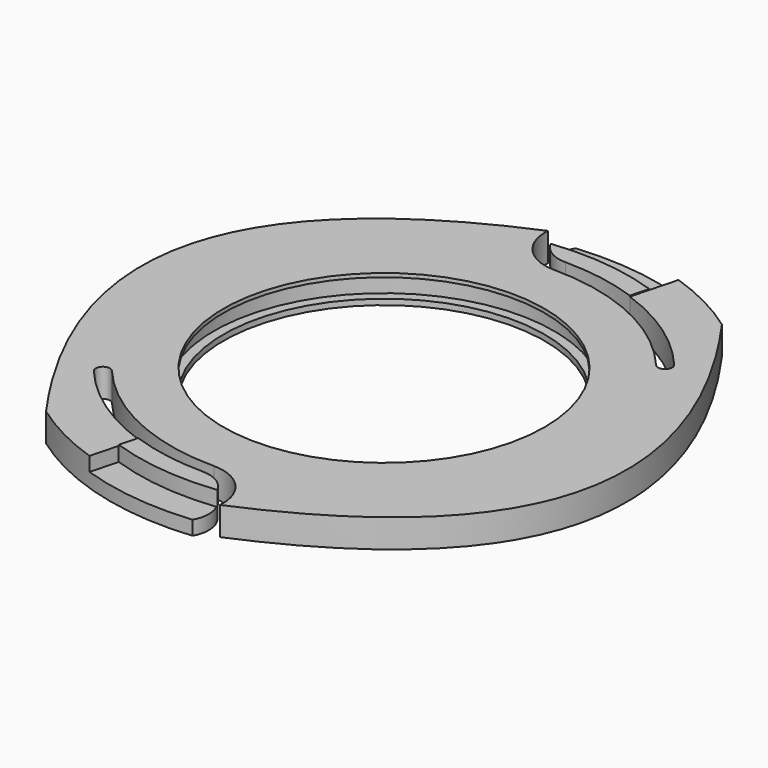
from build123d import *

# Parameters (mm, degrees)
SKETCH_R              = 29
PAD_DEPTH             = 3
POCKET_DEPTH          = 5
POLARPATTERN_COUNT    = 2
POCKET001_DEPTH       = 5
POLARPATTERN001_COUNT = 2
SKETCH003_R           = 18
POCKET002_DEPTH       = 2.4
SKETCH004_R           = 17
POCKET003_DEPTH       = 5
POCKET004_DEPTH       = 1.5
POLARPATTERN002_COUNT = 2
PAD001_DEPTH          = 1.6
POLARPATTERN003_COUNT = 2
SKETCH007_R           = 18.340375
PAD002_DEPTH          = 0.4
SKETCH008_R           = 17
POCKET005_DEPTH       = 5


with BuildPart() as part:
    # Sketch → Pad (new body)
    with BuildSketch(Plane.XY):
        Circle(SKETCH_R)
    extrude(amount=PAD_DEPTH)

    # Sketch001 (on Face3 of Pad) → Pocket (cut)
    with BuildSketch(Plane.XY.offset(3)):
        with BuildLine():
            ThreePointArc((-18.385067, -15.426903), (-10.142838, -21.751387), (0, -24))
            ThreePointArc((1.989789, -29.812024), (3.071599, -26.195037), (0, -24))
            ThreePointArc((1.989789, -29.812024), (2.178472, -31.958585), (3.600531, -30.339612))
            ThreePointArc((3.600531, -30.339612), (4.313448, -25.265566), (0, -22.5))
            ThreePointArc((-17.236, -14.462721), (-9.508911, -20.391925), (0, -22.5))
            ThreePointArc((-17.236, -14.462721), (-18.296812, -14.365288), (-18.385067, -15.426903))
        make_face()
    pocket = extrude(amount=-POCKET_DEPTH, mode=Mode.SUBTRACT)

    # PolarPattern: Pocket ×2 about axis
    polarpattern_axis = Axis((0, 0, 3), (0, 0, 1))
    for i in range(1, POLARPATTERN_COUNT):
        add(pocket.rotate(polarpattern_axis, i * 360 / POLARPATTERN_COUNT), mode=Mode.SUBTRACT)

    # Sketch002 (on Face4 of PolarPattern) → Pocket001 (cut)
    with BuildSketch(Plane.XY.offset(3)):
        with BuildLine():
            add(Edge.make_bspline(
                [(-3.074709, 28.315083), (-42.734669, 12.512014), (-16.852234, -23.673746)],
                knots=[0, 0, 0, 1, 1, 1], degree=2))
            Line((-16.852234, -23.673746), (-19.979143, -30.365301))
            Line((-19.979143, -30.365301), (-32.54401, -28.825899))
            Line((-32.54401, -28.825899), (-39.32571, 4.3753))
            Line((-39.32571, 4.3753), (-7.235262, 36.220139))
            Line((-7.235262, 36.220139), (-3.074709, 28.315083))
        make_face()
    pocket001 = extrude(amount=-POCKET001_DEPTH, mode=Mode.SUBTRACT)

    # PolarPattern001: Pocket001 ×2 about axis
    polarpattern001_axis = Axis((0, 0, 3), (0, 0, 1))
    for i in range(1, POLARPATTERN001_COUNT):
        add(pocket001.rotate(polarpattern001_axis, i * 360 / POLARPATTERN001_COUNT), mode=Mode.SUBTRACT)

    # Sketch003 (on Face4 of PolarPattern001) → Pocket002 (cut)
    with BuildSketch(Plane.XY.offset(3)):
        Circle(SKETCH003_R)
    extrude(amount=-POCKET002_DEPTH, mode=Mode.SUBTRACT)

    # Sketch004 (on Face18 of Pocket002) → Pocket003 (cut)
    with BuildSketch(Plane.XY.offset(0.6)):
        Circle(SKETCH004_R)
    extrude(amount=-POCKET003_DEPTH, mode=Mode.SUBTRACT)

    # Sketch005 (on Face4 of Pocket003) → Pocket004 (cut)
    with BuildSketch(Plane.XY.offset(3)):
        Polygon((-7.733806, -22.017185), (-1.653993, -23.383749), (2.389916, -24.108864), (3.923815, -27.065102), (3.45663, -30.749018), (-4.573239, -30.749018), (-10.02356, -30.749018), align=None)
    pocket004 = extrude(amount=-POCKET004_DEPTH, mode=Mode.SUBTRACT)

    # PolarPattern002: Pocket004 ×2 about axis
    polarpattern002_axis = Axis((0, 0, 3), (0, 0, 1))
    for i in range(1, POLARPATTERN002_COUNT):
        add(pocket004.rotate(polarpattern002_axis, i * 360 / POLARPATTERN002_COUNT), mode=Mode.SUBTRACT)

    # Sketch006 (on Face28 of PolarPattern002) → Pad001 (join)
    with BuildSketch(Plane.XY.offset(1.5)):
        with BuildLine():
            ThreePointArc((-7.90278, -22.661555), (-4.00766, -23.663023), (0, -24))
            ThreePointArc((3.010027, -25.819366), (1.758576, -24.49018), (0, -24))
            ThreePointArc((-8.410088, -24.596145), (-2.768435, -25.846386), (3.010027, -25.819366))
            Line((-7.90278, -22.661555), (-8.410088, -24.596145))
        make_face()
    pad001 = extrude(amount=PAD001_DEPTH)

    # PolarPattern003: Pad001 ×2 about axis
    polarpattern003_axis = Axis((0, 0, 1.5), (0, 0, 1))
    for i in range(1, POLARPATTERN003_COUNT):
        add(pad001.rotate(polarpattern003_axis, i * 360 / POLARPATTERN003_COUNT))

    # Sketch007 (on Face6 of PolarPattern003) → Pad002 (join)
    with BuildSketch(Plane.XY.offset(3)):
        Circle(SKETCH007_R)
    extrude(amount=-PAD002_DEPTH)

    # Sketch008 (on Face35 of Pad002) → Pocket005 (cut)
    with BuildSketch(Plane.XY.offset(3)):
        Circle(SKETCH008_R)
    extrude(amount=-POCKET005_DEPTH, mode=Mode.SUBTRACT)


solid = part.part
